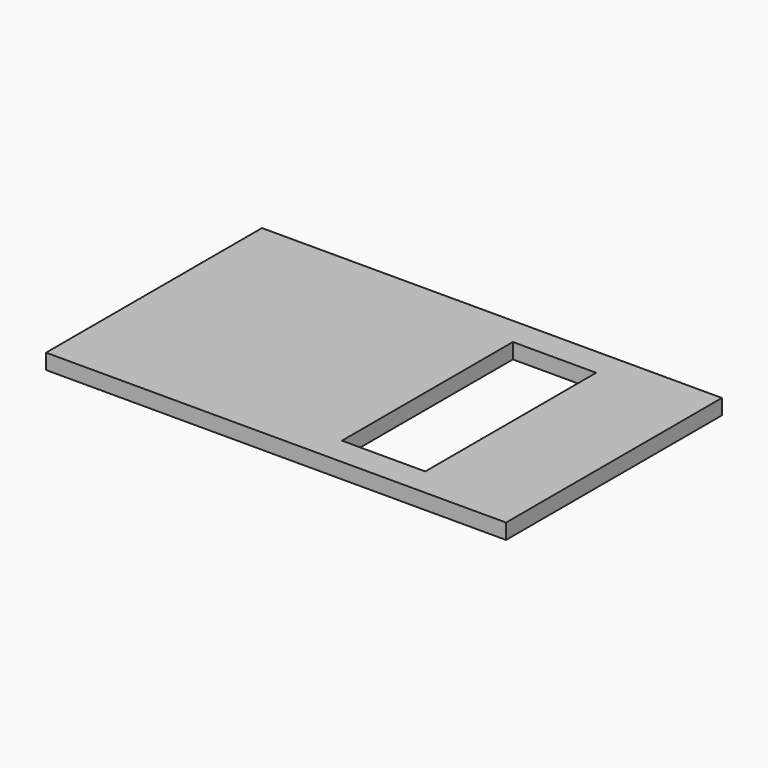
from build123d import *

# Parameters (mm, degrees)
F0_W          = 22.352
F0_H          = 1.27
F1_DEPTH      = 38.1
F2_W          = 6.8990886211
F2_H          = 17.6976025105
F3_DEPTH      = 25.4
F3_DEPTH_BACK = 25.4


with BuildPart() as f1:
    # F0 (on Right) → F1 (new body)
    with BuildSketch(Plane.YZ):
        Rectangle(F0_W, F0_H)
    extrude(amount=F1_DEPTH)

    # F2 (on Top) → F3 (cut, two sides)
    with BuildSketch(Plane.XY) as f3_sk:
        with Locations((26.0965079069, 0)):
            Rectangle(F2_W, F2_H)
        with Locations((26.0965079069, 0)):
            Rectangle(F2_W, F2_H)
    extrude(amount=-F3_DEPTH, mode=Mode.SUBTRACT)
    extrude(f3_sk.sketch, amount=F3_DEPTH_BACK, mode=Mode.SUBTRACT)


solid = f1.part
